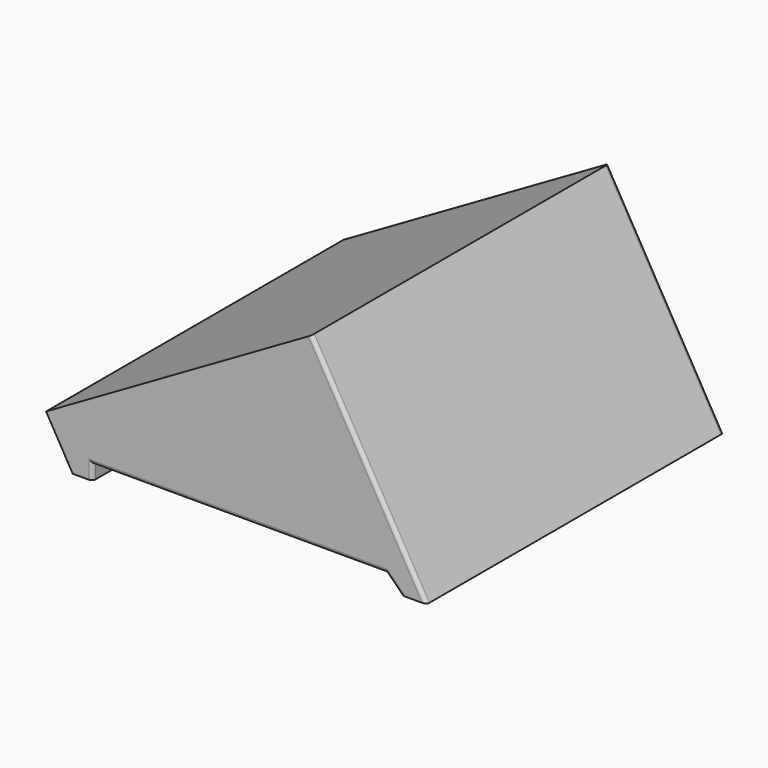
from build123d import *

# Parameters (mm, degrees)
BOX019_W           = 8.5
BOX019_H           = 14
BOX019_DEPTH       = 0.5
CHAMFER_SIZE       = 0.45
BOX014_W           = 8.7
BOX014_H           = 10.2
BOX014_DEPTH       = 6.15
BOX014_PITCH_ANGLE = 60
BOX013_W           = 8.7
BOX013_H           = 12.2
BOX013_DEPTH       = 11.15
BOX013_PITCH_ANGLE = 60
BOX012_W           = 8.7
BOX012_H           = 10.2
BOX012_DEPTH       = 6.15
BOX012_PITCH_ANGLE = 60
BOX011_W           = 11
BOX011_H           = 10.2
BOX011_DEPTH       = 6.15
FILLET002_R        = 0.1
FILLET003_R        = 0.1


with BuildPart() as chamfer_body:
    # Box019 → Box019 (new body)
    with BuildSketch(Plane(origin=(1, -11, -0.1), x_dir=(1, 0, 0), z_dir=(0, 0, 1))):
        with Locations((4.25, 7)):
            Rectangle(BOX019_W, BOX019_H)
    extrude(amount=BOX019_DEPTH)

    # Chamfer
    chamfer_edges = [chamfer_body.edges().sort_by_distance(p)[0] for p in [
        (9.5, -4, 0.4),
    ]]
    chamfer(chamfer_edges, length=CHAMFER_SIZE)


with BuildPart() as kub014:
    # Box014 → Box014 (new body)
    with BuildSketch(Plane.XY):
        with Locations((4.35, 5.1)):
            Rectangle(BOX014_W, BOX014_H)
    extrude(amount=BOX014_DEPTH)


with BuildPart() as kub014_1:
    # Box014 pitch: moved
    add(kub014.part.rotate(Axis((0, 0, 0), (0, 1, 0)), BOX014_PITCH_ANGLE))


with BuildPart() as kub014_2:
    # Box014 placement: moved
    add(kub014_1.part.moved(Location((-7.8, -8.9, 2))))


with BuildPart() as kub013:
    # Box013 → Box013 (new body)
    with BuildSketch(Plane.XY):
        with Locations((4.35, 6.1)):
            Rectangle(BOX013_W, BOX013_H)
    extrude(amount=BOX013_DEPTH)


with BuildPart() as kub013_1:
    # Box013 pitch: moved
    add(kub013.part.rotate(Axis((0, 0, 0), (0, 1, 0)), BOX013_PITCH_ANGLE))


with BuildPart() as kub013_2:
    # Box013 placement: moved
    add(kub013_1.part.moved(Location((-5.72, -9.9, 8.17))))


with BuildPart() as kub012:
    # Box012 → Box012 (new body)
    with BuildSketch(Plane.XY):
        with Locations((4.35, 5.1)):
            Rectangle(BOX012_W, BOX012_H)
    extrude(amount=BOX012_DEPTH)


with BuildPart() as kub012_1:
    # Box012 pitch: moved
    add(kub012.part.rotate(Axis((0, 0, 0), (0, 1, 0)), BOX012_PITCH_ANGLE))


with BuildPart() as kub012_2:
    # Box012 placement: moved
    add(kub012_1.part.moved(Location((6.7, -8.9, 6))))


with BuildPart() as fillet003:
    # Box011 → Box011 (new body)
    with BuildSketch(Plane(origin=(-0.5, -8.9, 0), x_dir=(1, 0, 0), z_dir=(0, 0, 1))):
        with Locations((5.5, 5.1)):
            Rectangle(BOX011_W, BOX011_H)
    extrude(amount=BOX011_DEPTH)

    # Cut007: cut Kub012
    add(kub012_2.part, mode=Mode.SUBTRACT)

    # Cut008: cut Kub013
    add(kub013_2.part, mode=Mode.SUBTRACT)

    # Cut009: cut Kub014
    add(kub014_2.part, mode=Mode.SUBTRACT)

    # Cut010: cut Chamfer body
    add(chamfer_body.part, mode=Mode.SUBTRACT)

    # Fillet002
    fillet002_edges = [fillet003.edges().sort_by_distance(p)[0] for p in [
        (1, -8.9, 0.2),
        (5.025, -8.9, 0.4),
        (9.25, -8.9, 0.2),
    ]]
    fillet(fillet002_edges, radius=FILLET002_R)

    # Fillet003
    fillet003_edges = [fillet003.edges().sort_by_distance(p)[0] for p in [
        (8.584732, -8.9, 2.735548),
        (8.584732, 1.3, 2.735548),
        (1, 1.3, 0.2),
        (5.025, 1.3, 0.4),
        (9.25, 1.3, 0.2),
    ]]
    fillet(fillet003_edges, radius=FILLET003_R)


solid = fillet003.part
